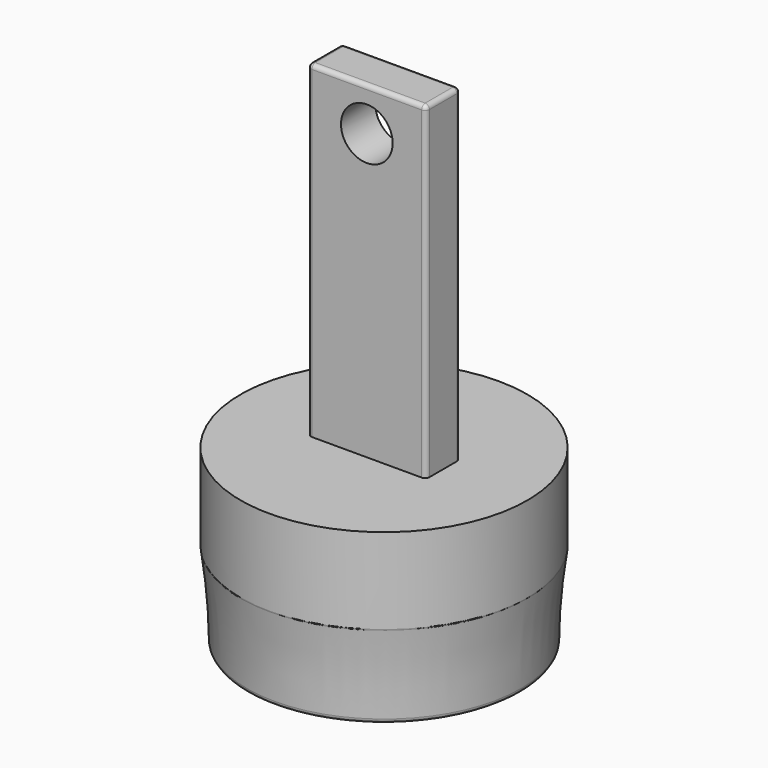
from build123d import *

# Parameters (mm, degrees)
SKETCH017_W     = 9.99
SKETCH017_H     = 27.5
PAD007_DEPTH    = 76.2
SKETCH018_R     = 6
POCKET005_DEPTH = 38.326
FILLET003_R     = 1
FILLET004_R     = 1


with BuildPart() as part:
    # Sketch016 → Revolution004 (revolve)
    with BuildSketch(Plane.YZ):
        with BuildLine():
            Line((0, 40), (33.33, 40))
            Line((33.33, 40), (33.33, 20))
            ThreePointArc((33.33, 20), (32.183058, 10.029219), (31.8, 0))
            Line((31.8, 0), (0, 0))
            Line((0, 40), (0, 0))
        make_face()
    revolve(axis=Axis((0, 0, 0), (0, 0, 1)))

    # Sketch017 (on Face1 of Revolution004) → Pad007 (new body)
    with BuildSketch(Plane(origin=(0, 0, 40), x_dir=(0, -1, 0), z_dir=(0, 0, 1))):
        Rectangle(SKETCH017_W, SKETCH017_H)
    extrude(amount=PAD007_DEPTH)

    # Sketch018 (on Face5 of Pad007) → Pocket005 (cut, through all)
    with BuildSketch(Plane(origin=(0, -4.995, 0), x_dir=(0, 0, -1), z_dir=(0, -1, 0))):
        with Locations((-106.2, 0)):
            Circle(SKETCH018_R)
    extrude(amount=-POCKET005_DEPTH, mode=Mode.SUBTRACT)

    # Fillet003
    fillet003_edges = [part.edges().sort_by_distance(p)[0] for p in [
        (0, 4.995, 116.2),
        (-13.75, 0, 116.2),
        (0, -4.995, 116.2),
        (13.75, 0, 116.2),
        (13.75, -4.995, 78.1),
        (13.75, 4.995, 78.1),
        (-13.75, 4.995, 78.1),
        (-13.75, -4.995, 78.1),
    ]]
    fillet(fillet003_edges, radius=FILLET003_R)

    # Fillet004
    fillet004_edges = [part.edges().sort_by_distance(p)[0] for p in [
        (0, -33.33, 20),
        (0, -31.8, 0),
    ]]
    fillet(fillet004_edges, radius=FILLET004_R)


solid = part.part
